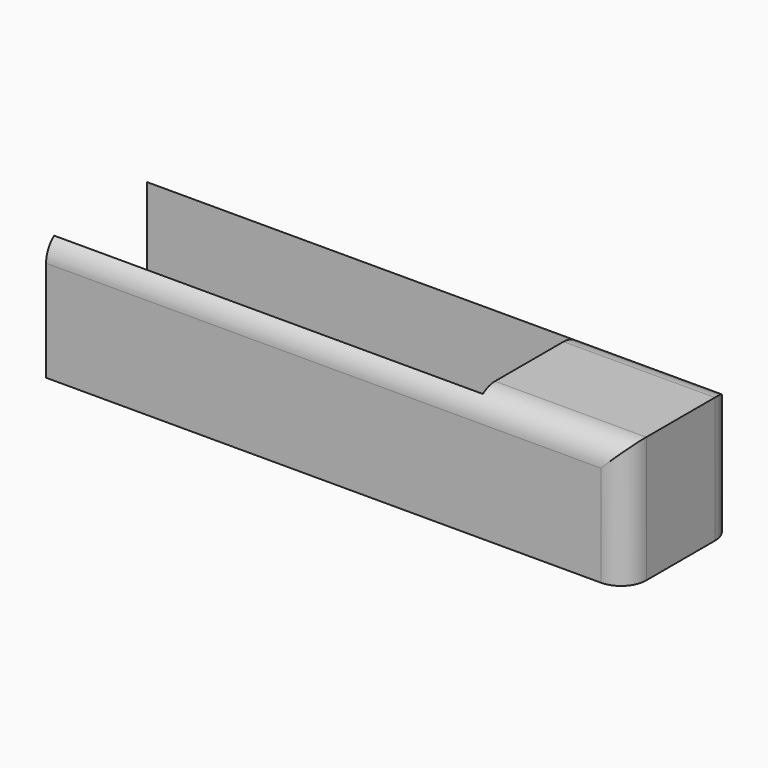
from build123d import *

# Parameters (mm, degrees)
F0_W     = 30
F0_H     = 23
F1_DEPTH = 25
F2_R     = 5


with BuildPart() as f1:
    # F0 (on Top) → F1 (new body)
    with BuildSketch(Plane.XY):
        Polygon((46.863733, -11.060504), (16.863733, -11.060504), (-68.136267, -11.060504), (-68.136267, -13.060504), (46.863733, -13.060504), align=None)
        Polygon((-68.136267, 11.939496), (16.863733, 11.939496), (46.863733, 11.939496), (46.863733, 13.939496), (-68.136267, 13.939496), align=None)
        with Locations((31.863733, 0.439496)):
            Rectangle(F0_W, F0_H)
    extrude(amount=F1_DEPTH)

    # F2
    f2_edges = [f1.edges().sort_by_distance(p)[0] for p in [
        (46.863733, -13.060504, 12.5),
        (46.863733, 13.939496, 12.5),
        (-10.636267, -13.060504, 25),
        (-10.636267, 13.939496, 25),
    ]]
    fillet(f2_edges, radius=F2_R)


solid = f1.part
